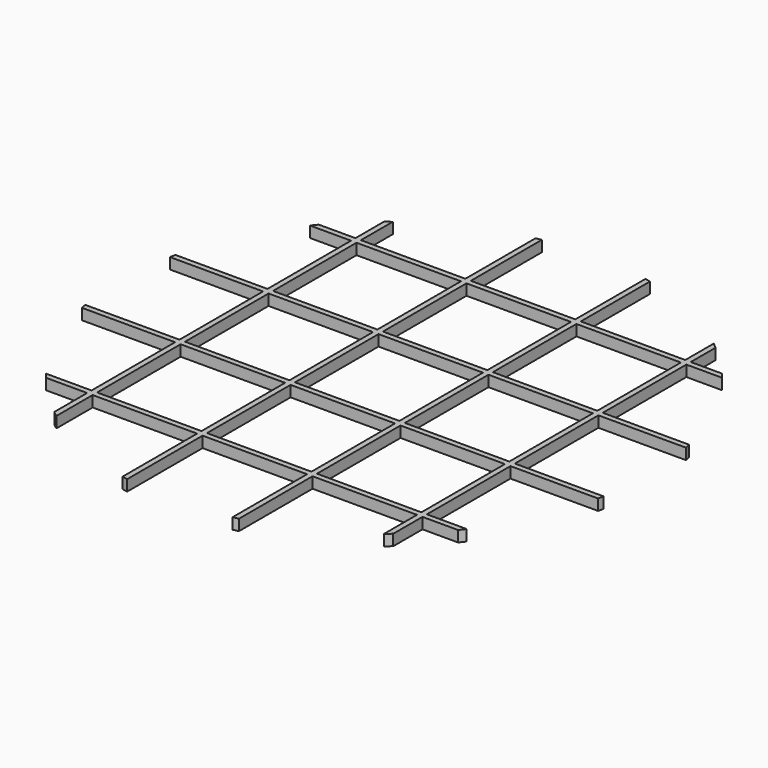
from build123d import *

# Parameters (mm, degrees)
F0_W     = 1.9
F0_H     = 1.9
F1_DEPTH = 0.2


with BuildPart() as f1:
    # F0 (on Top) → F1 (new body)
    with BuildSketch(Plane.XY):
        with BuildLine():
            ThreePointArc((-2.9, 3.824918), (-2.950257, 3.786289), (-3, 3.746999))
            Line((-3, 3.746999), (-3, 3.1))
            Line((-3, 3.1), (-3.664696, 3.1))
            ThreePointArc((-3.664696, 3.1), (-3.706185, 3.050278), (-3.746999, 3))
            Line((-3.746999, 3), (-3, 3))
            Line((-3, 3), (-3, 1.1))
            Line((-3, 1.1), (-4.672259, 1.1))
            ThreePointArc((-4.672259, 1.1), (-4.683735, 1.05006), (-4.694678, 1))
            Line((-4.694678, 1), (-3, 1))
            Line((-3, 1), (-3, -0.9))
            Line((-3, -0.9), (-4.71487, -0.9))
            ThreePointArc((-4.71487, -0.9), (-4.70504, -0.950054), (-4.694678, -1))
            Line((-4.694678, -1), (-3, -1))
            Line((-3, -1), (-3, -2.9))
            Line((-3, -2.9), (-3.824918, -2.9))
            ThreePointArc((-3.824918, -2.9), (-3.786289, -2.950257), (-3.746999, -3))
            Line((-3.746999, -3), (-3, -3))
            Line((-3, -3), (-3, -3.746999))
            ThreePointArc((-3, -3.746999), (-2.950257, -3.786289), (-2.9, -3.824918))
            Line((-2.9, -3.824918), (-2.9, -3))
            Line((-2.9, -3), (-1, -3))
            Line((-1, -3), (-1, -4.694678))
            ThreePointArc((-1, -4.694678), (-0.950054, -4.70504), (-0.9, -4.71487))
            Line((-0.9, -4.71487), (-0.9, -3))
            Line((-0.9, -3), (1, -3))
            Line((1, -3), (1, -4.694678))
            ThreePointArc((1, -4.694678), (1.05006, -4.683735), (1.1, -4.672259))
            Line((1.1, -4.672259), (1.1, -3))
            Line((1.1, -3), (3, -3))
            Line((3, -3), (3, -3.746999))
            ThreePointArc((3, -3.746999), (3.050278, -3.706185), (3.1, -3.664696))
            Line((3.1, -3.664696), (3.1, -3))
            Line((3.1, -3), (3.746999, -3))
            ThreePointArc((3.746999, -3), (3.786289, -2.950257), (3.824918, -2.9))
            Line((3.824918, -2.9), (3.1, -2.9))
            Line((3.1, -2.9), (3.1, -1))
            Line((3.1, -1), (4.694678, -1))
            ThreePointArc((4.694678, -1), (4.70504, -0.950054), (4.71487, -0.9))
            Line((4.71487, -0.9), (3.1, -0.9))
            Line((3.1, -0.9), (3.1, 1))
            Line((3.1, 1), (4.694678, 1))
            ThreePointArc((4.694678, 1), (4.683735, 1.05006), (4.672259, 1.1))
            Line((4.672259, 1.1), (3.1, 1.1))
            Line((3.1, 1.1), (3.1, 3))
            Line((3.1, 3), (3.746999, 3))
            ThreePointArc((3.746999, 3), (3.706185, 3.050278), (3.664696, 3.1))
            Line((3.664696, 3.1), (3.1, 3.1))
            Line((3.1, 3.1), (3.1, 3.664696))
            ThreePointArc((3.1, 3.664696), (3.050278, 3.706185), (3, 3.746999))
            Line((3, 3.746999), (3, 3.1))
            Line((3, 3.1), (1.1, 3.1))
            Line((1.1, 3.1), (1.1, 4.672259))
            ThreePointArc((1.1, 4.672259), (1.05006, 4.683735), (1, 4.694678))
            Line((1, 4.694678), (1, 3.1))
            Line((1, 3.1), (-0.9, 3.1))
            Line((-0.9, 3.1), (-0.9, 4.71487))
            ThreePointArc((-0.9, 4.71487), (-0.950054, 4.70504), (-1, 4.694678))
            Line((-1, 4.694678), (-1, 3.1))
            Line((-1, 3.1), (-2.9, 3.1))
            Line((-2.9, 3.1), (-2.9, 3.824918))
        make_face()
        with Locations((-1.95, -1.95)):
            Rectangle(F0_W, F0_H, mode=Mode.SUBTRACT)
        with Locations((0.05, -1.95)):
            Rectangle(F0_W, F0_H, mode=Mode.SUBTRACT)
        with Locations((2.05, -1.95)):
            Rectangle(F0_W, F0_H, mode=Mode.SUBTRACT)
        with Locations((-1.95, 0.05)):
            Rectangle(F0_W, F0_H, mode=Mode.SUBTRACT)
        with Locations((-1.95, 2.05)):
            Rectangle(F0_W, F0_H, mode=Mode.SUBTRACT)
        with Locations((0.05, 0.05)):
            Rectangle(F0_W, F0_H, mode=Mode.SUBTRACT)
        with Locations((2.05, 0.05)):
            Rectangle(F0_W, F0_H, mode=Mode.SUBTRACT)
        with Locations((0.05, 2.05)):
            Rectangle(F0_W, F0_H, mode=Mode.SUBTRACT)
        with Locations((2.05, 2.05)):
            Rectangle(F0_W, F0_H, mode=Mode.SUBTRACT)
    extrude(amount=F1_DEPTH)


solid = f1.part
